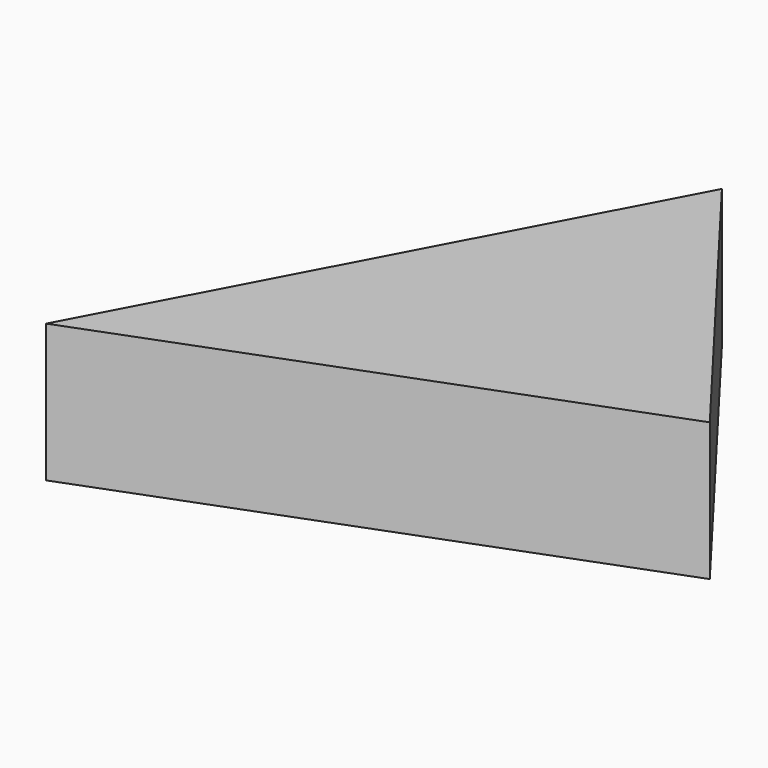
from build123d import *

# Parameters (mm, degrees)
F1_DEPTH = 25.4


with BuildPart() as f1:
    # F0 (on Top) → F1 (new body)
    with BuildSketch(Plane.XY):
        Polygon((-69.824181, -47.248978), (23.847414, -11.664243), (-20.17281, 46.152856), align=None)
    extrude(amount=-F1_DEPTH)


solid = f1.part
